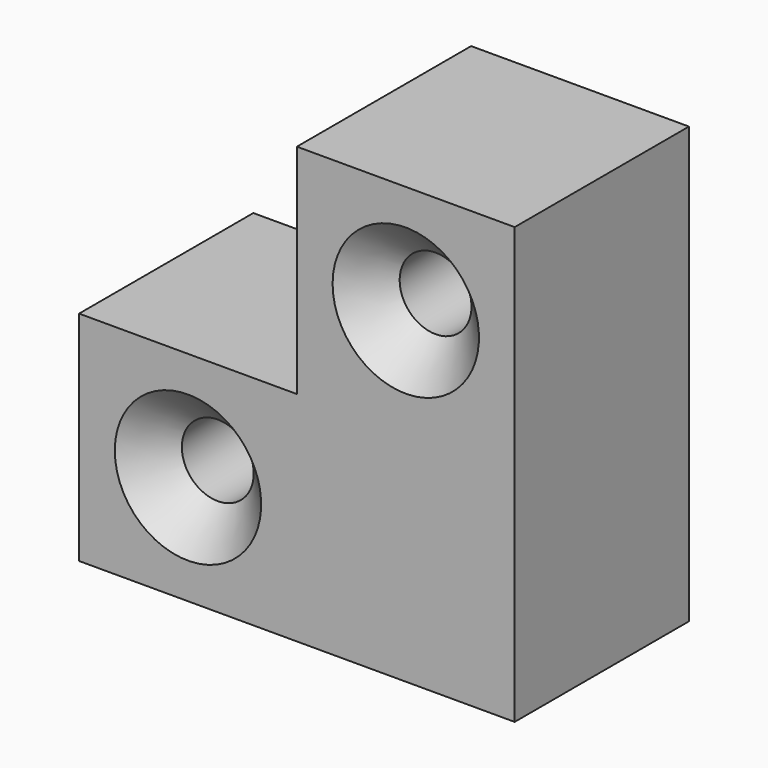
from build123d import *

# Parameters (mm, degrees)
F1_DEPTH       = 10
F3_D           = 3.3
F3_CSINK_D     = 6.72
F3_CSINK_ANGLE = 90


with BuildPart() as f1:
    # F0 (on Front) → F1 (new body)
    with BuildSketch(Plane.XZ):
        Polygon((0, 20), (-10, 20), (-10, 10), (-20, 10), (-20, 0), (0, 0), align=None)
    extrude(amount=F1_DEPTH)

    # F3 (through all)
    with Locations(Plane.XZ.offset(10)):
        with Locations((-5, 15), (-15, 5)):
            CounterSinkHole(F3_D / 2, F3_CSINK_D / 2, counter_sink_angle=F3_CSINK_ANGLE)


solid = f1.part
